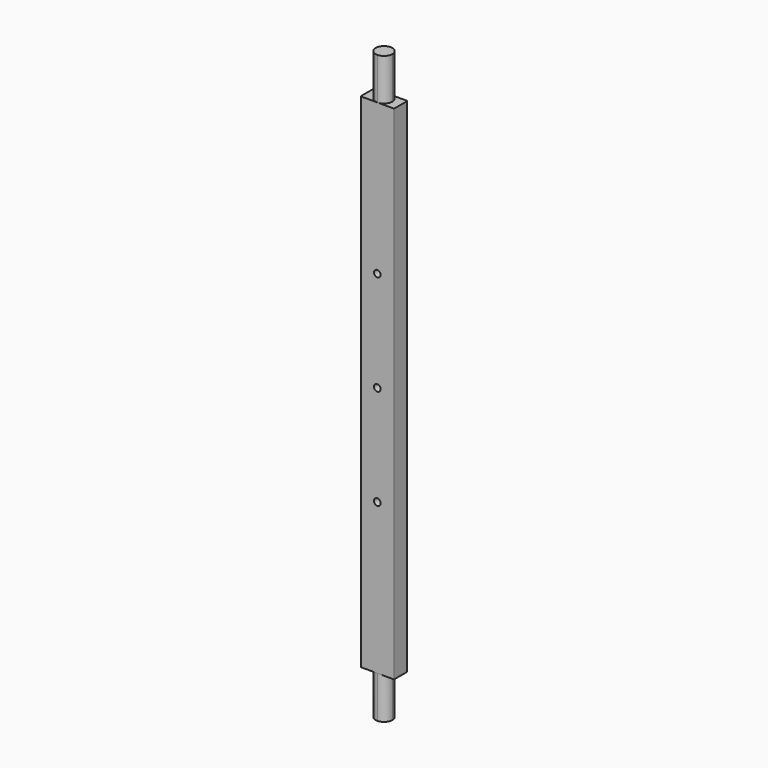
from build123d import *

# Parameters (mm, degrees)
F0_W     = 40
F0_H     = 700
F1_DEPTH = 20
F3_DEPTH = 50
F5_DEPTH = 50
F6_R     = 4
F7_DEPTH = 25
F8_R     = 0.5


with BuildPart() as f1:
    # F0 (on Front) → F1 (new body)
    with BuildSketch(Plane.XZ):
        with Locations((20, 350)):
            Rectangle(F0_W, F0_H)
    extrude(amount=F1_DEPTH)

    # F2 (on face) → F3 (cut)
    with BuildSketch(Plane.XY.offset(700)):
        with BuildLine():
            ThreePointArc((20, 0), (27.071068, -2.928932), (30, -10))
            ThreePointArc((30, -10), (27.071068, -17.071068), (20, -20))
            Line((20, -20), (40, -20))
            Line((40, -20), (40, 0))
            Line((40, 0), (20, 0))
        make_face()
        with BuildLine():
            ThreePointArc((20, -20), (10, -10), (20, 0))
            Line((20, 0), (0, 0))
            Line((0, 0), (0, -20))
            Line((0, -20), (20, -20))
        make_face()
    extrude(amount=-F3_DEPTH, mode=Mode.SUBTRACT)

    # F4 (on face) → F5 (cut)
    with BuildSketch(Plane(origin=(0, 0, 0), x_dir=(1, 0, 0), z_dir=(0, 0, -1))):
        with BuildLine():
            ThreePointArc((20, 0), (10, 10), (20, 20))
            Line((20, 20), (0, 20))
            Line((0, 20), (0, 0))
            Line((0, 0), (20, 0))
        make_face()
        with BuildLine():
            ThreePointArc((20, 20), (27.071068, 17.071068), (30, 10))
            ThreePointArc((30, 10), (27.071068, 2.928932), (20, 0))
            Line((20, 0), (40, 0))
            Line((40, 0), (40, 20))
            Line((40, 20), (20, 20))
        make_face()
    extrude(amount=-F5_DEPTH, mode=Mode.SUBTRACT)

    # F6 (on face) → F7 (cut)
    with BuildSketch(Plane(origin=(0, 0, 0), x_dir=(-1, 0, 0), z_dir=(0, 1, 0))):
        with Locations((-20, 470)):
            Circle(F6_R)
        with Locations((-20, 230)):
            Circle(F6_R)
        with Locations((-20, 350)):
            Circle(F6_R)
    extrude(amount=-F7_DEPTH, mode=Mode.SUBTRACT)

    # F8
    f8_edges = [f1.edges().sort_by_distance(p)[0] for p in [
        (0, 0, 350),
        (0, -20, 350),
        (40, 0, 350),
        (40, -20, 350),
    ]]
    fillet(f8_edges, radius=F8_R)


solid = f1.part
